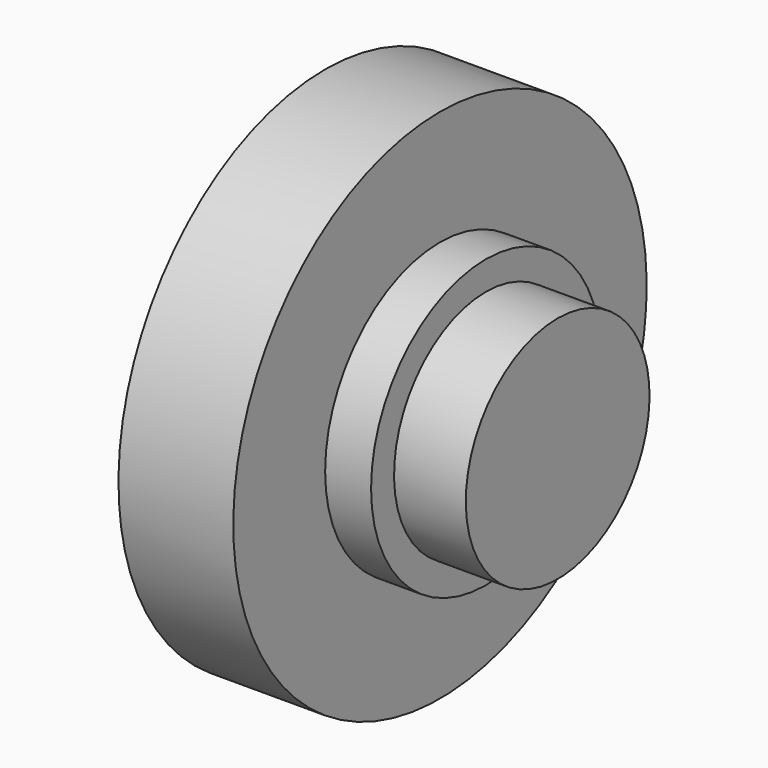
from build123d import *

# Parameters (mm, degrees)
F0_W = 2.5
F0_H = 4


with BuildPart() as f1:
    # F0 (on Front) → F1 (revolve)
    with BuildSketch(Plane.XZ):
        Polygon((-7.152688, 5), (-7.152688, 0), (-5.552688, 0), (-5.552688, 4), (-5.552688, 5), align=None)
        Polygon((-11.152688, 0), (-7.152688, 0), (-7.152688, 5), (-7.152688, 9), (-11.152688, 9), (-11.152688, 8.198828), align=None)
        with Locations((-4.302688, 2)):
            Rectangle(F0_W, F0_H)
    revolve(axis=Axis((-2.808182, 0, 0), (1, 0, 0)))


solid = f1.part
